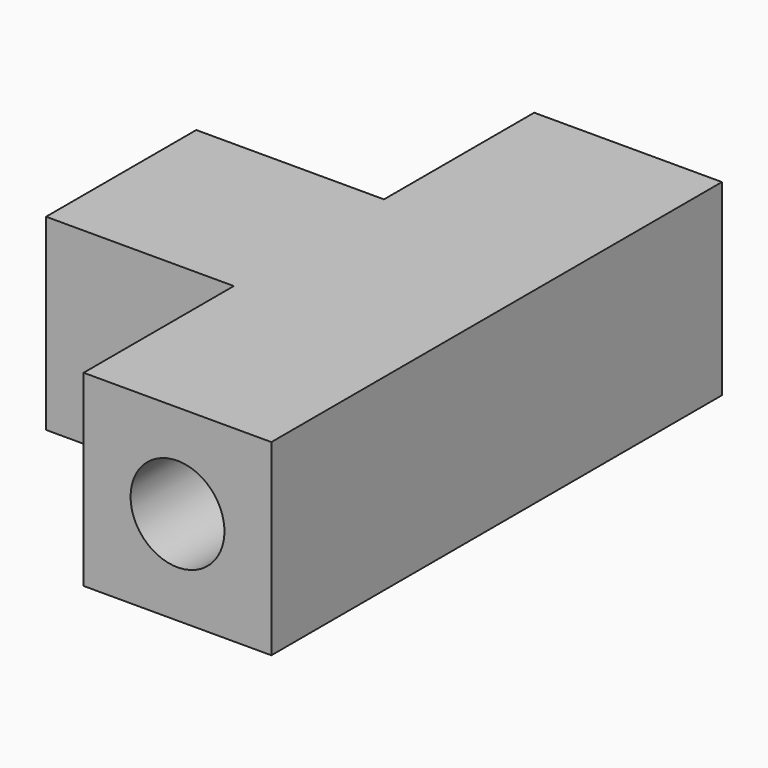
from build123d import *

# Parameters (mm, degrees)
F1_DEPTH = 12.7
F2_R     = 6.35
F3_DEPTH = 76.201
F4_R     = 6.35
F5_DEPTH = 12.7


with BuildPart() as f1:
    # F0 (on Top) → F1 (new body, symmetric)
    with BuildSketch(Plane.XY):
        Polygon((12.7, -38.1), (12.7, 0), (12.7, 38.1), (-12.7, 38.1), (-12.7, 12.7), (-38.1, 12.7), (-38.1, 0), (-38.1, -12.7), (-12.7, -12.7), (-12.7, -38.1), align=None)
    extrude(amount=F1_DEPTH, both=True)

    # F2 (on face) → F3 (cut, through all)
    with BuildSketch(Plane(origin=(0, 38.1, 0), x_dir=(-1, 0, 0), z_dir=(0, 1, 0))):
        Circle(F2_R)
    extrude(amount=-F3_DEPTH, mode=Mode.SUBTRACT)

    # F4 (on face) → F5 (cut)
    with BuildSketch(Plane(origin=(-38.1, 0, 0), x_dir=(0, -1, 0), z_dir=(-1, 0, 0))):
        Circle(F4_R)
    extrude(amount=-F5_DEPTH, mode=Mode.SUBTRACT)


solid = f1.part
